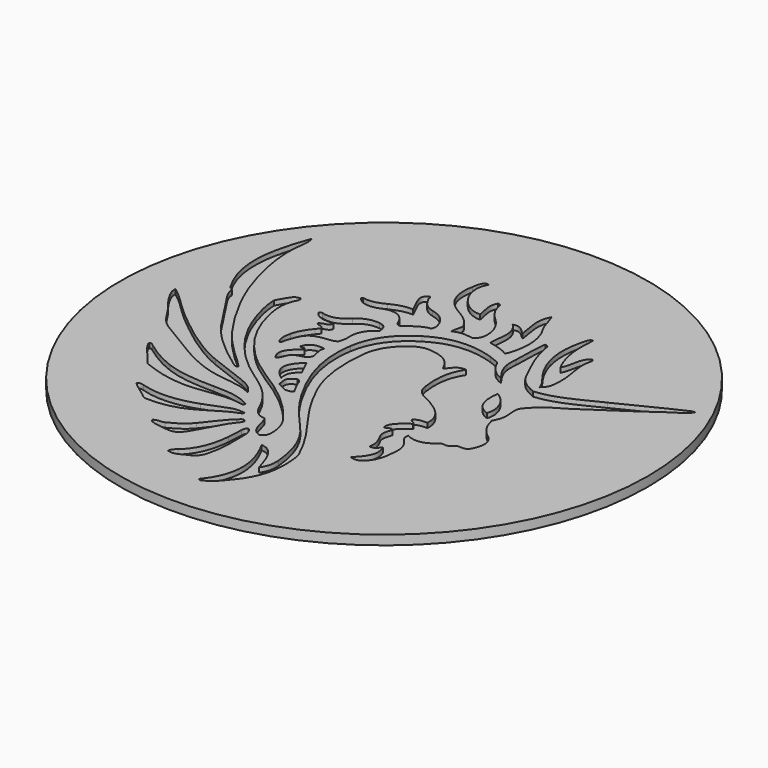
from build123d import *

# Parameters (mm, degrees)
SKETCH001_R  = 280
PAD_DEPTH    = 10
POCKET_DEPTH = 5


with BuildPart() as part:
    # Sketch001 (on DatumPlane) → Pad (new body)
    with BuildSketch(Plane.XY):
        Circle(SKETCH001_R)
    extrude(amount=-PAD_DEPTH)

    # Sketch002 (on DatumPlane) → Pocket (cut)
    with BuildSketch(Plane(origin=(-240, 190, 0), x_dir=(1, 0, 0), z_dir=(0, 0, 1))):
        with BuildLine():
            add(Edge.make_bspline(
                [(196.41095, -254.761603), (195.018448, -255.547707), (194.370907, -256.126403), (193.63272, -256.285974)],
                knots=[0, 0, 0, 0, 1, 1, 1, 1], degree=3))
            add(Edge.make_bspline(
                [(193.63272, -256.285974), (192.05665, -256.626651), (190.433616, -256.750185), (188.519276, -257.003815)],
                knots=[0, 0, 0, 0, 1, 1, 1, 1], degree=3))
            add(Edge.make_bspline(
                [(188.519276, -257.003815), (185.128985, -255.250527), (181.572667, -253.411329), (178.342078, -251.740617)],
                knots=[0, 0, 0, 0, 1, 1, 1, 1], degree=3))
            add(Edge.make_bspline(
                [(178.342078, -251.740617), (175.915717, -241.787045), (176.890257, -239.394206), (184.496631, -235.698321)],
                knots=[0, 0, 0, 0, 1, 1, 1, 1], degree=3))
            add(Edge.make_bspline(
                [(184.496631, -235.698321), (189.500192, -236.420528), (189.060878, -241.199802), (190.863035, -244.267514)],
                knots=[0, 0, 0, 0, 1, 1, 1, 1], degree=3))
            add(Edge.make_bspline(
                [(190.863035, -244.267514), (192.765151, -247.505432), (194.38964, -250.906386), (196.41095, -254.761603)],
                knots=[0, 0, 0, 0, 1, 1, 1, 1], degree=3))
        make_face()
        with BuildLine():
            add(Edge.make_bspline(
                [(356.803457, -193.12554), (358.928009, -203.63479), (363.88765, -211.077784), (371.673808, -217.00408)],
                knots=[0, 0, 0, 0, 1, 1, 1, 1], degree=3))
            add(Edge.make_bspline(
                [(371.673808, -217.00408), (378.612532, -222.285454), (380.246758, -230.131303), (376.878691, -238.313198)],
                knots=[0, 0, 0, 0, 1, 1, 1, 1], degree=3))
            add(Edge.make_bspline(
                [(376.878691, -238.313198), (375.84933, -240.813802), (375.030815, -243.48014), (373.094197, -245.409402)],
                knots=[0, 0, 0, 0, 1, 1, 1, 1], degree=3))
            add(Edge.make_bspline(
                [(373.094197, -245.409402), (369.981136, -247.35245), (366.566556, -246.041571), (363.032543, -246.662125)],
                knots=[0, 0, 0, 0, 1, 1, 1, 1], degree=3))
            add(Edge.make_bspline(
                [(363.032543, -246.662125), (361.121008, -248.140432), (358.984047, -249.793125), (357.901425, -250.630399)],
                knots=[0, 0, 0, 0, 1, 1, 1, 1], degree=3))
            add(Edge.make_bspline(
                [(357.901425, -250.630399), (354.300975, -252.4946), (351.877021, -250.762955), (349.486114, -251.262012)],
                knots=[0, 0, 0, 0, 1, 1, 1, 1], degree=3))
            add(Edge.make_bspline(
                [(349.486114, -251.262012), (340.8544, -259.207952), (331.444944, -263.351724), (319.618334, -257.466597)],
                knots=[0, 0, 0, 0, 1, 1, 1, 1], degree=3))
            add(Edge.make_bspline(
                [(319.618334, -257.466597), (317.960587, -263.067086), (322.359867, -266.306379), (324.907566, -269.595018)],
                knots=[0, 0, 0, 0, 1, 1, 1, 1], degree=3))
            add(Edge.make_bspline(
                [(324.907566, -269.595018), (328.755163, -274.561697), (329.756717, -279.819179), (329.3931, -285.626096)],
                knots=[0, 0, 0, 0, 1, 1, 1, 1], degree=3))
            add(Edge.make_bspline(
                [(329.3931, -285.626096), (328.775536, -295.48836), (327.81793, -305.243442), (321.057349, -313.338184)],
                knots=[0, 0, 0, 0, 1, 1, 1, 1], degree=3))
            add(Edge.make_bspline(
                [(321.057349, -313.338184), (317.090266, -318.088063), (312.538242, -319.345627), (306.548684, -317.207662)],
                knots=[0, 0, 0, 0, 1, 1, 1, 1], degree=3))
            add(Edge.make_bspline(
                [(306.548684, -317.207662), (318.613949, -304.753698), (320.907622, -297.70996), (316.351973, -286.745733)],
                knots=[0, 0, 0, 0, 1, 1, 1, 1], degree=3))
            add(Edge.make_bspline(
                [(316.351973, -286.745733), (313.875288, -289.694646), (312.063051, -293.625164), (306.726484, -292.532435)],
                knots=[0, 0, 0, 0, 1, 1, 1, 1], degree=3))
            add(Edge.make_bspline(
                [(306.726484, -292.532435), (307.911262, -285.471473), (305.603143, -279.164415), (302.055292, -272.982372)],
                knots=[0, 0, 0, 0, 1, 1, 1, 1], degree=3))
            add(Edge.make_bspline(
                [(302.055292, -272.982372), (299.144558, -267.910469), (301.268156, -262.483812), (302.990144, -257.746923)],
                knots=[0, 0, 0, 0, 1, 1, 1, 1], degree=3))
            add(Edge.make_bspline(
                [(302.990144, -257.746923), (299.428244, -254.126868), (297.172936, -259.347996), (294.295486, -258.071858)],
                knots=[0, 0, 0, 0, 1, 1, 1, 1], degree=3))
            add(Edge.make_bspline(
                [(294.295486, -258.071858), (293.207599, -251.868755), (296.593498, -247.412007), (309.246217, -238.359976)],
                knots=[0, 0, 0, 0, 1, 1, 1, 1], degree=3))
            add(Edge.make_bspline(
                [(309.246217, -238.359976), (309.064501, -235.23366), (304.956051, -236.222619), (304.095362, -233.010922)],
                knots=[0, 0, 0, 0, 1, 1, 1, 1], degree=3))
            add(Edge.make_bspline(
                [(304.095362, -233.010922), (307.580639, -229.401185), (312.396717, -229.440766), (317.510054, -229.371128)],
                knots=[0, 0, 0, 0, 1, 1, 1, 1], degree=3))
            add(Edge.make_bspline(
                [(317.510054, -229.371128), (318.226546, -217.595265), (311.757378, -210.199843), (303.299178, -204.216132)],
                knots=[0, 0, 0, 0, 1, 1, 1, 1], degree=3))
            add(Edge.make_bspline(
                [(303.299178, -204.216132), (298.185866, -200.598723), (292.746986, -197.214728), (287.011586, -194.760824)],
                knots=[0, 0, 0, 0, 1, 1, 1, 1], degree=3))
            add(Edge.make_bspline(
                [(287.011586, -194.760824), (279.813015, -191.680862), (276.393275, -186.242986), (275.408496, -179.116725)],
                knots=[0, 0, 0, 0, 1, 1, 1, 1], degree=3))
            add(Edge.make_bspline(
                [(275.408496, -179.116725), (273.270557, -163.6463), (274.149476, -148.58701), (283.144965, -135.004678)],
                knots=[0, 0, 0, 0, 1, 1, 1, 1], degree=3))
            add(Edge.make_bspline(
                [(283.144965, -135.004678), (276.638994, -134.60775), (272.903209, -137.055622), (267.943013, -144.943327)],
                knots=[0, 0, 0, 0, 1, 1, 1, 1], degree=3))
            add(Edge.make_bspline(
                [(267.943013, -144.943327), (267.05814, -145.146686), (266.16242, -144.925441), (265.851825, -144.132274)],
                knots=[0, 0, 0, 0, 1, 1, 1, 1], degree=3))
            add(Edge.make_bspline(
                [(265.851825, -144.132274), (260.68311, -130.932529), (249.293248, -126.952401), (236.916965, -126.203525)],
                knots=[0, 0, 0, 0, 1, 1, 1, 1], degree=3))
            add(Edge.make_bspline(
                [(236.916965, -126.203525), (226.106143, -125.549369), (218.051883, -132.43941), (211.153613, -140.065046)],
                knots=[0, 0, 0, 0, 1, 1, 1, 1], degree=3))
            add(Edge.make_bspline(
                [(211.153613, -140.065046), (204.36041, -147.574609), (200.347845, -156.640318), (199.276891, -166.650882)],
                knots=[0, 0, 0, 0, 1, 1, 1, 1], degree=3))
            add(Edge.make_bspline(
                [(199.276891, -166.650882), (196.622538, -191.461628), (198.317908, -215.794881), (208.590065, -238.989553)],
                knots=[0, 0, 0, 0, 1, 1, 1, 1], degree=3))
            add(Edge.make_bspline(
                [(208.590065, -238.989553), (216.124843, -256.003213), (225.597799, -271.963489), (236.676327, -286.799549)],
                knots=[0, 0, 0, 0, 1, 1, 1, 1], degree=3))
            add(Edge.make_bspline(
                [(236.676327, -286.799549), (249.126825, -303.472929), (260.75976, -320.517785), (269.398962, -339.509894)],
                knots=[0, 0, 0, 0, 1, 1, 1, 1], degree=3))
            add(Edge.make_bspline(
                [(269.398962, -339.509894), (271.148942, -343.356935), (271.436174, -347.481102), (271.866228, -351.458715)],
                knots=[0, 0, 0, 0, 1, 1, 1, 1], degree=3))
            add(Edge.make_bspline(
                [(271.866228, -351.458715), (274.132278, -372.417393), (269.919529, -391.938986), (256.174055, -408.31299)],
                knots=[0, 0, 0, 0, 1, 1, 1, 1], degree=3))
            add(Edge.make_bspline(
                [(256.174055, -408.31299), (251.041297, -414.427326), (246.536051, -421.538056), (239.009873, -425.422245)],
                knots=[0, 0, 0, 0, 1, 1, 1, 1], degree=3))
            add(Edge.make_bspline(
                [(239.009873, -425.422245), (236.933423, -426.493914), (235.070412, -428.496571), (232.471436, -426.543893)],
                knots=[0, 0, 0, 0, 1, 1, 1, 1], degree=3))
            add(Edge.make_bspline(
                [(232.471436, -426.543893), (253.802092, -400.677856), (250.430586, -374.009603), (235.164789, -346.245154)],
                knots=[0, 0, 0, 0, 1, 1, 1, 1], degree=3))
            add(Edge.make_bspline(
                [(235.164789, -346.245154), (244.073733, -346.907511), (248.056823, -352.97446), (251.210233, -358.968119)],
                knots=[0, 0, 0, 0, 1, 1, 1, 1], degree=3))
            add(Edge.make_bspline(
                [(251.210233, -358.968119), (254.338958, -364.914815), (255.967521, -371.650763), (258.545489, -378.855235)],
                knots=[0, 0, 0, 0, 1, 1, 1, 1], degree=3))
            add(Edge.make_bspline(
                [(258.545489, -378.855235), (263.392973, -372.621043), (263.95463, -365.937218), (263.47584, -359.405132)],
                knots=[0, 0, 0, 0, 1, 1, 1, 1], degree=3))
            add(Edge.make_bspline(
                [(263.47584, -359.405132), (261.80833, -336.655913), (254.142372, -316.069186), (238.323438, -299.403955)],
                knots=[0, 0, 0, 0, 1, 1, 1, 1], degree=3))
            add(Edge.make_bspline(
                [(238.323438, -299.403955), (225.666538, -286.069881), (214.364094, -271.819767), (205.081108, -256.041075)],
                knots=[0, 0, 0, 0, 1, 1, 1, 1], degree=3))
            add(Edge.make_bspline(
                [(205.081108, -256.041075), (187.971536, -226.959292), (176.319154, -196.377586), (181.690275, -161.696426)],
                knots=[0, 0, 0, 0, 1, 1, 1, 1], degree=3))
            add(Edge.make_bspline(
                [(181.690275, -161.696426), (185.190977, -139.092437), (197.782312, -122.756507), (216.930288, -110.864306)],
                knots=[0, 0, 0, 0, 1, 1, 1, 1], degree=3))
            add(Edge.make_bspline(
                [(216.930288, -110.864306), (238.558546, -97.431754), (261.250324, -96.80149), (284.756569, -104.616488)],
                knots=[0, 0, 0, 0, 1, 1, 1, 1], degree=3))
            add(Edge.make_bspline(
                [(284.756569, -104.616488), (288.101167, -105.728453), (291.329771, -107.18927), (295.003485, -108.643605)],
                knots=[0, 0, 0, 0, 1, 1, 1, 1], degree=3))
            add(Edge.make_bspline(
                [(295.003485, -108.643605), (299.121221, -117.230525), (304.478425, -125.126962), (314.650385, -128.251426)],
                knots=[0, 0, 0, 0, 1, 1, 1, 1], degree=3))
            add(Edge.make_bspline(
                [(314.650385, -128.251426), (309.790253, -121.936642), (305.46167, -115.537298), (304.192755, -107.432634)],
                knots=[0, 0, 0, 0, 1, 1, 1, 1], degree=3))
            add(Edge.make_bspline(
                [(304.192755, -107.432634), (303.545081, -103.295953), (303.93222, -99.198906), (304.186908, -95.194332)],
                knots=[0, 0, 0, 0, 1, 1, 1, 1], degree=3))
            add(Edge.make_bspline(
                [(304.186908, -95.194332), (304.955152, -83.115494), (304.15402, -70.9159), (306.085849, -58.862807)],
                knots=[0, 0, 0, 0, 1, 1, 1, 1], degree=3))
            add(Edge.make_bspline(
                [(306.085849, -58.862807), (310.246448, -59.04021), (310.137281, -62.092523), (310.493728, -64.242818)],
                knots=[0, 0, 0, 0, 1, 1, 1, 1], degree=3))
            add(Edge.make_bspline(
                [(310.493728, -64.242818), (313.445128, -82.047689), (321.66941, -97.781216), (329.499039, -113.700825)],
                knots=[0, 0, 0, 0, 1, 1, 1, 1], degree=3))
            add(Edge.make_bspline(
                [(329.499039, -113.700825), (333.940282, -122.731001), (342.049021, -126.990422), (350.527911, -130.768672)],
                knots=[0, 0, 0, 0, 1, 1, 1, 1], degree=3))
            add(Edge.make_bspline(
                [(350.527911, -130.768672), (373.033581, -129.044726), (391.718747, -117.117178), (411.331833, -107.997096)],
                knots=[0, 0, 0, 0, 1, 1, 1, 1], degree=3))
            add(Edge.make_bspline(
                [(411.331833, -107.997096), (432.806554, -98.01143), (453.516868, -86.407308), (475.17603, -76.760996)],
                knots=[0, 0, 0, 0, 1, 1, 1, 1], degree=3))
            add(Edge.make_bspline(
                [(475.17603, -76.760996), (475.857993, -76.457254), (476.650235, -76.40111), (479.098213, -75.83424)],
                knots=[0, 0, 0, 0, 1, 1, 1, 1], degree=3))
            add(Edge.make_bspline(
                [(479.098213, -75.83424), (476.690346, -80.278526), (473.757757, -82.568997), (470.795112, -84.269024)],
                knots=[0, 0, 0, 0, 1, 1, 1, 1], degree=3))
            add(Edge.make_bspline(
                [(470.795112, -84.269024), (458.424941, -91.367187), (447.650314, -100.808869), (435.630294, -108.290678)],
                knots=[0, 0, 0, 0, 1, 1, 1, 1], degree=3))
            add(Edge.make_bspline(
                [(435.630294, -108.290678), (416.361219, -120.284637), (398.639744, -134.64794), (378.652537, -145.440426)],
                knots=[0, 0, 0, 0, 1, 1, 1, 1], degree=3))
            add(Edge.make_bspline(
                [(378.652537, -145.440426), (372.122965, -148.966185), (368.100928, -154.710448), (363.28178, -159.679375)],
                knots=[0, 0, 0, 0, 1, 1, 1, 1], degree=3))
            add(Edge.make_bspline(
                [(363.28178, -159.679375), (359.276438, -163.80923), (360.412903, -170.422808), (360.87476, -175.412374)],
                knots=[0, 0, 0, 0, 1, 1, 1, 1], degree=3))
            add(Edge.make_bspline(
                [(360.87476, -175.412374), (361.50206, -182.189967), (360.071194, -187.731876), (356.803457, -193.12554)],
                knots=[0, 0, 0, 0, 1, 1, 1, 1], degree=3))
        make_face()
        with BuildLine():
            add(Edge.make_bspline(
                [(330.51414, -152.445191), (328.341249, -170.786108), (332.55802, -180.293407), (344.870379, -184.81331)],
                knots=[0, 0, 0, 0, 1, 1, 1, 1], degree=3))
            add(Edge.make_bspline(
                [(344.870379, -184.81331), (348.941522, -174.725648), (343.422552, -159.729382), (330.51414, -152.445191)],
                knots=[0, 0, 0, 0, 1, 1, 1, 1], degree=3))
        make_face(mode=Mode.SUBTRACT)
        with BuildLine():
            add(Edge.make_bspline(
                [(222.434362, -333.493295), (209.855461, -329.287373), (212.435969, -316.379225), (207.173221, -307.251444)],
                knots=[0, 0, 0, 0, 1, 1, 1, 1], degree=3))
            add(Edge.make_bspline(
                [(207.173221, -307.251444), (197.469046, -306.986993), (193.473917, -299.934551), (189.835234, -291.774298)],
                knots=[0, 0, 0, 0, 1, 1, 1, 1], degree=3))
            add(Edge.make_bspline(
                [(189.835234, -291.774298), (182.577317, -275.497502), (169.596991, -264.315231), (155.070334, -254.671142)],
                knots=[0, 0, 0, 0, 1, 1, 1, 1], degree=3))
            add(Edge.make_bspline(
                [(155.070334, -254.671142), (123.219845, -233.525907), (99.62351, -205.717696), (87.572321, -169.076105)],
                knots=[0, 0, 0, 0, 1, 1, 1, 1], degree=3))
            add(Edge.make_bspline(
                [(87.572321, -169.076105), (84.183352, -158.772013), (81.355777, -148.11973), (81.038832, -137.290704)],
                knots=[0, 0, 0, 0, 1, 1, 1, 1], degree=3))
            add(Edge.make_bspline(
                [(81.038832, -137.290704), (89.774183, -121.627583), (89.774183, -121.627583), (95.920957, -120.681856)],
                knots=[0, 0, 0, 0, 1, 1, 1, 1], degree=3))
            add(Edge.make_bspline(
                [(95.920957, -120.681856), (97.742666, -122.307906), (97.092214, -124.263176), (96.207474, -125.900894)],
                knots=[0, 0, 0, 0, 1, 1, 1, 1], degree=3))
            add(Edge.make_bspline(
                [(96.207474, -125.900894), (89.992015, -137.406406), (91.876615, -149.581235), (94.531206, -161.189485)],
                knots=[0, 0, 0, 0, 1, 1, 1, 1], degree=3))
            add(Edge.make_bspline(
                [(94.531206, -161.189485), (101.366029, -191.077294), (118.406757, -214.868019), (142.017618, -233.799856)],
                knots=[0, 0, 0, 0, 1, 1, 1, 1], degree=3))
            add(Edge.make_bspline(
                [(142.017618, -233.799856), (152.611614, -242.294384), (164.621686, -249.006095), (175.843433, -256.738358)],
                knots=[0, 0, 0, 0, 1, 1, 1, 1], degree=3))
            add(Edge.make_bspline(
                [(175.843433, -256.738358), (193.266457, -268.743562), (208.636923, -282.994312), (220.940207, -300.256178)],
                knots=[0, 0, 0, 0, 1, 1, 1, 1], degree=3))
            add(Edge.make_bspline(
                [(220.940207, -300.256178), (226.119373, -307.522668), (228.247099, -316.125357), (228.099303, -325.090552)],
                knots=[0, 0, 0, 0, 1, 1, 1, 1], degree=3))
            add(Edge.make_bspline(
                [(228.099303, -325.090552), (228.03739, -328.848059), (226.214781, -331.820467), (222.434362, -333.493295)],
                knots=[0, 0, 0, 0, 1, 1, 1, 1], degree=3))
        make_face()
        with BuildLine():
            add(Edge.make_bspline(
                [(36.53573, -31.408291), (39.000747, -38.871578), (36.79616, -46.149128), (36.195952, -53.397732)],
                knots=[0, 0, 0, 0, 1, 1, 1, 1], degree=3))
            add(Edge.make_bspline(
                [(36.195952, -53.397732), (35.115421, -66.446532), (36.813543, -79.124413), (39.2498, -91.68093)],
                knots=[0, 0, 0, 0, 1, 1, 1, 1], degree=3))
            add(Edge.make_bspline(
                [(39.2498, -91.68093), (43.844131, -115.360238), (51.72919, -138.09345), (62.771761, -159.521128)],
                knots=[0, 0, 0, 0, 1, 1, 1, 1], degree=3))
            add(Edge.make_bspline(
                [(62.771761, -159.521128), (76.31131, -185.794121), (91.959695, -210.575763), (114.133471, -230.864833)],
                knots=[0, 0, 0, 0, 1, 1, 1, 1], degree=3))
            add(Edge.make_bspline(
                [(114.133471, -230.864833), (120.192112, -236.408516), (126.636939, -241.924258), (132.127043, -248.113047)],
                knots=[0, 0, 0, 0, 1, 1, 1, 1], degree=3))
            add(Edge.make_bspline(
                [(132.127043, -248.113047), (130.554386, -250.053607), (129.214086, -249.497321), (128.124373, -248.71717)],
                knots=[0, 0, 0, 0, 1, 1, 1, 1], degree=3))
            add(Edge.make_bspline(
                [(128.124373, -248.71717), (108.116158, -234.392602), (88.641343, -219.397157), (74.395568, -198.94804)],
                knots=[0, 0, 0, 0, 1, 1, 1, 1], degree=3))
            add(Edge.make_bspline(
                [(74.395568, -198.94804), (64.908404, -185.329671), (56.084867, -171.244816), (47.129224, -157.263121)],
                knots=[0, 0, 0, 0, 1, 1, 1, 1], degree=3))
            add(Edge.make_bspline(
                [(47.129224, -157.263121), (44.651692, -153.395151), (42.450782, -149.272202), (42.343282, -145.402618)],
                knots=[0, 0, 0, 0, 1, 1, 1, 1], degree=3))
            add(Edge.make_bspline(
                [(42.343282, -145.402618), (41.317228, -142.295801), (38.729259, -142.856797), (38.081268, -141.437016)],
                knots=[0, 0, 0, 0, 1, 1, 1, 1], degree=3))
            add(Edge.make_bspline(
                [(38.081268, -141.437016), (15.357422, -104.86943), (22.794992, -68.119625), (36.53573, -31.408291)],
                knots=[0, 0, 0, 0, 1, 1, 1, 1], degree=3))
        make_face()
        with BuildLine():
            add(Edge.make_bspline(
                [(4.542631, -172.338497), (12.466267, -178.109324), (19.378798, -184.592542), (25.899851, -191.254433)],
                knots=[0, 0, 0, 0, 1, 1, 1, 1], degree=3))
            add(Edge.make_bspline(
                [(25.899851, -191.254433), (33.785625, -199.310599), (42.528993, -206.279988), (51.172269, -213.277609)],
                knots=[0, 0, 0, 0, 1, 1, 1, 1], degree=3))
            add(Edge.make_bspline(
                [(51.172269, -213.277609), (69.029236, -227.734627), (87.725515, -241.214936), (109.105568, -250.151133)],
                knots=[0, 0, 0, 0, 1, 1, 1, 1], degree=3))
            add(Edge.make_bspline(
                [(109.105568, -250.151133), (122.467052, -255.735825), (136.302697, -260.177624), (149.739694, -265.593486)],
                knots=[0, 0, 0, 0, 1, 1, 1, 1], degree=3))
            add(Edge.make_bspline(
                [(149.739694, -265.593486), (156.938213, -268.49488), (163.455191, -272.718847), (167.328241, -280.15266)],
                knots=[0, 0, 0, 0, 1, 1, 1, 1], degree=3))
            add(Edge.make_bspline(
                [(167.328241, -280.15266), (156.261461, -273.665421), (143.733441, -273.476746), (131.76504, -271.842812)],
                knots=[0, 0, 0, 0, 1, 1, 1, 1], degree=3))
            add(Edge.make_bspline(
                [(131.76504, -271.842812), (113.936542, -269.408831), (98.391689, -262.09707), (83.030721, -253.400004)],
                knots=[0, 0, 0, 0, 1, 1, 1, 1], degree=3))
            add(Edge.make_bspline(
                [(83.030721, -253.400004), (70.908413, -246.53658), (59.536886, -238.474276), (47.287206, -231.870647)],
                knots=[0, 0, 0, 0, 1, 1, 1, 1], degree=3))
            add(Edge.make_bspline(
                [(47.287206, -231.870647), (39.643579, -227.750132), (33.398963, -222.378455), (29.064638, -214.697125)],
                knots=[0, 0, 0, 0, 1, 1, 1, 1], degree=3))
            add(Edge.make_bspline(
                [(29.064638, -214.697125), (22.779911, -203.559304), (13.135504, -194.705261), (7.429579, -183.103176)],
                knots=[0, 0, 0, 0, 1, 1, 1, 1], degree=3))
            add(Edge.make_bspline(
                [(7.429579, -183.103176), (5.757757, -179.703783), (4.322313, -176.449593), (4.542631, -172.338497)],
                knots=[0, 0, 0, 0, 1, 1, 1, 1], degree=3))
        make_face()
        with BuildLine():
            add(Edge.make_bspline(
                [(183.694546, -125.617949), (174.037863, -131.526015), (169.963095, -140.121534), (170.627331, -151.227208)],
                knots=[0, 0, 0, 0, 1, 1, 1, 1], degree=3))
            add(Edge.make_bspline(
                [(170.627331, -151.227208), (170.837013, -154.733069), (170.088851, -158.300129), (168.713441, -161.437294)],
                knots=[0, 0, 0, 0, 1, 1, 1, 1], degree=3))
            add(Edge.make_bspline(
                [(168.713441, -161.437294), (165.477904, -163.822989), (161.855309, -163.967345), (158.34532, -164.292518)],
                knots=[0, 0, 0, 0, 1, 1, 1, 1], degree=3))
            add(Edge.make_bspline(
                [(158.34532, -164.292518), (139.194222, -166.066708), (138.184096, -173.812359), (133.302878, -187.69793)],
                knots=[0, 0, 0, 0, 1, 1, 1, 1], degree=3))
            add(Edge.make_bspline(
                [(133.302878, -187.69793), (132.781543, -189.180973), (133.483191, -191.012445), (131.316651, -193.122312)],
                knots=[0, 0, 0, 0, 1, 1, 1, 1], degree=3))
            add(Edge.make_bspline(
                [(131.316651, -193.122312), (126.811987, -187.519575), (128.078071, -181.303057), (129.252319, -175.600466)],
                knots=[0, 0, 0, 0, 1, 1, 1, 1], degree=3))
            add(Edge.make_bspline(
                [(129.252319, -175.600466), (130.755602, -168.299924), (134.967504, -162.127591), (139.567285, -156.303292)],
                knots=[0, 0, 0, 0, 1, 1, 1, 1], degree=3))
            add(Edge.make_bspline(
                [(139.567285, -156.303292), (140.737511, -154.82152), (142.275639, -153.548662), (142.673387, -151.45639)],
                knots=[0, 0, 0, 0, 1, 1, 1, 1], degree=3))
            add(Edge.make_bspline(
                [(142.673387, -151.45639), (141.511999, -147.915339), (137.300917, -149.639073), (134.996026, -146.963236)],
                knots=[0, 0, 0, 0, 1, 1, 1, 1], degree=3))
            add(Edge.make_bspline(
                [(134.996026, -146.963236), (137.540047, -143.132731), (144.262792, -145.344303), (145.846668, -139.320085)],
                knots=[0, 0, 0, 0, 1, 1, 1, 1], degree=3))
            add(Edge.make_bspline(
                [(145.846668, -139.320085), (137.748592, -138.661749), (128.764427, -140.006599), (123.680696, -131.40137)],
                knots=[0, 0, 0, 0, 1, 1, 1, 1], degree=3))
            add(Edge.make_bspline(
                [(123.680696, -131.40137), (124.266642, -129.821623), (125.358393, -129.510181), (126.902871, -129.972594)],
                knots=[0, 0, 0, 0, 1, 1, 1, 1], degree=3))
            add(Edge.make_bspline(
                [(126.902871, -129.972594), (137.05586, -133.012418), (145.065776, -128.895528), (152.164362, -122.169555)],
                knots=[0, 0, 0, 0, 1, 1, 1, 1], degree=3))
            add(Edge.make_bspline(
                [(152.164362, -122.169555), (158.503488, -116.163196), (165.882479, -113.357051), (174.577534, -114.450019)],
                knots=[0, 0, 0, 0, 1, 1, 1, 1], degree=3))
            add(Edge.make_bspline(
                [(174.577534, -114.450019), (180.782621, -115.23001), (183.120162, -117.98726), (183.694546, -125.617949)],
                knots=[0, 0, 0, 0, 1, 1, 1, 1], degree=3))
        make_face()
        with BuildLine():
            add(Edge.make_bspline(
                [(202.572726, -4.437724), (191.18744, -23.122096), (210.545601, -50.928984), (230.09016, -50.393124)],
                knots=[0, 0, 0, 0, 1, 1, 1, 1], degree=3))
            add(Edge.make_bspline(
                [(230.09016, -50.393124), (229.240503, -42.203423), (224.596643, -33.889209), (229.665795, -25.866804)],
                knots=[0, 0, 0, 0, 1, 1, 1, 1], degree=3))
            add(Edge.make_bspline(
                [(229.665795, -25.866804), (232.578963, -25.680882), (232.901093, -27.452558), (233.187372, -29.014817)],
                knots=[0, 0, 0, 0, 1, 1, 1, 1], degree=3))
            add(Edge.make_bspline(
                [(233.187372, -29.014817), (234.619774, -36.831773), (238.626624, -42.954416), (244.482117, -48.31715)],
                knots=[0, 0, 0, 0, 1, 1, 1, 1], degree=3))
            add(Edge.make_bspline(
                [(244.482117, -48.31715), (251.637509, -54.87035), (256.804345, -62.755542), (257.59791, -72.869769)],
                knots=[0, 0, 0, 0, 1, 1, 1, 1], degree=3))
            add(Edge.make_bspline(
                [(257.59791, -72.869769), (258.021323, -78.266422), (257.351768, -83.204209), (252.170089, -87.35986)],
                knots=[0, 0, 0, 0, 1, 1, 1, 1], degree=3))
            add(Edge.make_bspline(
                [(252.170089, -87.35986), (245.489677, -86.82691), (238.171011, -84.541757), (230.671026, -89.210938)],
                knots=[0, 0, 0, 0, 1, 1, 1, 1], degree=3))
            add(Edge.make_bspline(
                [(230.671026, -89.210938), (230.306245, -82.831808), (233.869865, -77.873701), (231.943249, -74.6388)],
                knots=[0, 0, 0, 0, 1, 1, 1, 1], degree=3))
            add(Edge.make_bspline(
                [(231.943249, -74.6388), (226.4147, -64.599344), (217.996241, -60.642817), (210.44445, -55.947178)],
                knots=[0, 0, 0, 0, 1, 1, 1, 1], degree=3))
            add(Edge.make_bspline(
                [(210.44445, -55.947178), (195.013739, -46.352513), (191.137302, -32.602858), (194.48063, -15.791736)],
                knots=[0, 0, 0, 0, 1, 1, 1, 1], degree=3))
            add(Edge.make_bspline(
                [(194.48063, -15.791736), (195.167806, -12.336436), (195.361666, -8.710136), (197.582684, -5.710211)],
                knots=[0, 0, 0, 0, 1, 1, 1, 1], degree=3))
            add(Edge.make_bspline(
                [(197.582684, -5.710211), (198.662158, -4.252172), (199.97293, -3.519752), (202.572726, -4.437724)],
                knots=[0, 0, 0, 0, 1, 1, 1, 1], degree=3))
        make_face()
        with BuildLine():
            add(Edge.make_bspline(
                [(181.143778, -78.040204), (171.268258, -58.962369), (170.831351, -55.745327), (177.326158, -51.50657)],
                knots=[0, 0, 0, 0, 1, 1, 1, 1], degree=3))
            add(Edge.make_bspline(
                [(177.326158, -51.50657), (179.523046, -52.004198), (178.872145, -54.095782), (179.519606, -55.460133)],
                knots=[0, 0, 0, 0, 1, 1, 1, 1], degree=3))
            add(Edge.make_bspline(
                [(179.519606, -55.460133), (182.778347, -62.327181), (186.858407, -67.917483), (195.101289, -69.768429)],
                knots=[0, 0, 0, 0, 1, 1, 1, 1], degree=3))
            add(Edge.make_bspline(
                [(195.101289, -69.768429), (203.982055, -71.76262), (211.167133, -76.553139), (214.390155, -85.745585)],
                knots=[0, 0, 0, 0, 1, 1, 1, 1], degree=3))
            add(Edge.make_bspline(
                [(214.390155, -85.745585), (215.386867, -88.588321), (216.59432, -91.416214), (214.29173, -95.511646)],
                knots=[0, 0, 0, 0, 1, 1, 1, 1], degree=3))
            add(Edge.make_bspline(
                [(214.29173, -95.511646), (205.151408, -96.731349), (197.621207, -103.531485), (190.354506, -108.258451)],
                knots=[0, 0, 0, 0, 1, 1, 1, 1], degree=3))
            add(Edge.make_bspline(
                [(190.354506, -108.258451), (187.341536, -106.887169), (186.687407, -105.729273), (186.184143, -104.420273)],
                knots=[0, 0, 0, 0, 1, 1, 1, 1], degree=3))
            add(Edge.make_bspline(
                [(186.184143, -104.420273), (181.961869, -93.437631), (173.299252, -89.152069), (162.08793, -92.542281)],
                knots=[0, 0, 0, 0, 1, 1, 1, 1], degree=3))
            add(Edge.make_bspline(
                [(162.08793, -92.542281), (159.210984, -93.412257), (156.444791, -94.746604), (153.520696, -95.343319)],
                knots=[0, 0, 0, 0, 1, 1, 1, 1], degree=3))
            add(Edge.make_bspline(
                [(153.520696, -95.343319), (146.143133, -96.848824), (139.633484, -95.439389), (134.777321, -89.230094)],
                knots=[0, 0, 0, 0, 1, 1, 1, 1], degree=3))
            add(Edge.make_bspline(
                [(134.777321, -89.230094), (135.311409, -88.401472), (135.700585, -87.555017), (135.85317, -87.59571)],
                knots=[0, 0, 0, 0, 1, 1, 1, 1], degree=3))
            add(Edge.make_bspline(
                [(135.85317, -87.59571), (143.997389, -89.768045), (151.136324, -87.366634), (158.388579, -83.641062)],
                knots=[0, 0, 0, 0, 1, 1, 1, 1], degree=3))
            add(Edge.make_bspline(
                [(158.388579, -83.641062), (165.328335, -80.076014), (172.785379, -77.452352), (181.143778, -78.040204)],
                knots=[0, 0, 0, 0, 1, 1, 1, 1], degree=3))
        make_face()
        with BuildLine():
            add(Edge.make_bspline(
                [(178.828091, -297.320573), (178.423993, -298.671297), (177.659427, -299.73778), (176.50669, -299.465391)],
                knots=[0, 0, 0, 0, 1, 1, 1, 1], degree=3))
            add(Edge.make_bspline(
                [(176.50669, -299.465391), (160.378272, -295.654492), (144.549601, -299.732356), (128.658885, -301.330995)],
                knots=[0, 0, 0, 0, 1, 1, 1, 1], degree=3))
            add(Edge.make_bspline(
                [(128.658885, -301.330995), (109.709903, -303.237318), (91.732338, -299.708067), (74.244597, -292.739895)],
                knots=[0, 0, 0, 0, 1, 1, 1, 1], degree=3))
            add(Edge.make_bspline(
                [(74.244597, -292.739895), (72.486017, -292.039172), (70.421685, -291.765858), (69.222064, -290.137136)],
                knots=[0, 0, 0, 0, 1, 1, 1, 1], degree=3))
            add(Edge.make_bspline(
                [(69.222064, -290.137136), (62.478206, -280.981388), (53.663665, -273.439361), (48.282093, -263.235122)],
                knots=[0, 0, 0, 0, 1, 1, 1, 1], degree=3))
            add(Edge.make_bspline(
                [(48.282093, -263.235122), (48.088312, -262.867696), (48.415231, -262.225631), (48.507015, -261.66572)],
                knots=[0, 0, 0, 0, 1, 1, 1, 1], degree=3))
            add(Edge.make_bspline(
                [(48.507015, -261.66572), (50.393785, -260.088274), (51.318478, -261.867941), (52.557045, -262.78459)],
                knots=[0, 0, 0, 0, 1, 1, 1, 1], degree=3))
            add(Edge.make_bspline(
                [(52.557045, -262.78459), (63.066295, -270.562414), (73.953, -277.195042), (86.533699, -281.767359)],
                knots=[0, 0, 0, 0, 1, 1, 1, 1], degree=3))
            add(Edge.make_bspline(
                [(86.533699, -281.767359), (103.71111, -288.010362), (121.063015, -288.709709), (138.868706, -288.843164)],
                knots=[0, 0, 0, 0, 1, 1, 1, 1], degree=3))
            add(Edge.make_bspline(
                [(138.868706, -288.843164), (152.631881, -288.946325), (166.636832, -289.307429), (178.828091, -297.320573)],
                knots=[0, 0, 0, 0, 1, 1, 1, 1], degree=3))
        make_face()
        with BuildLine():
            add(Edge.make_bspline(
                [(290.25178, -92.402369), (283.35515, -88.26963), (276.074214, -86.359312), (268.161955, -84.757551)],
                knots=[0, 0, 0, 0, 1, 1, 1, 1], degree=3))
            add(Edge.make_bspline(
                [(268.161955, -84.757551), (268.67014, -71.774659), (274.126537, -58.624047), (262.678889, -47.874052)],
                knots=[0, 0, 0, 0, 1, 1, 1, 1], degree=3))
            add(Edge.make_bspline(
                [(262.678889, -47.874052), (270.241448, -45.072776), (273.540035, -50.651833), (278.979127, -55.237856)],
                knots=[0, 0, 0, 0, 1, 1, 1, 1], degree=3))
            add(Edge.make_bspline(
                [(278.979127, -55.237856), (277.657825, -42.157862), (272.153433, -30.344745), (279.447572, -17.293802)],
                knots=[0, 0, 0, 0, 1, 1, 1, 1], degree=3))
            add(Edge.make_bspline(
                [(279.447572, -17.293802), (283.220266, -25.560073), (283.900377, -33.261459), (287.928711, -39.57021)],
                knots=[0, 0, 0, 0, 1, 1, 1, 1], degree=3))
            add(Edge.make_bspline(
                [(287.928711, -39.57021), (291.970222, -45.899599), (293.960973, -52.922408), (295.042167, -60.264252)],
                knots=[0, 0, 0, 0, 1, 1, 1, 1], degree=3))
            add(Edge.make_bspline(
                [(295.042167, -60.264252), (296.389478, -69.413252), (294.311176, -85.048725), (290.25178, -92.402369)],
                knots=[0, 0, 0, 0, 1, 1, 1, 1], degree=3))
        make_face()
        with BuildLine():
            add(Edge.make_bspline(
                [(332.788816, -28.121901), (330.861379, -47.887943), (332.156647, -66.202216), (341.632355, -83.12404)],
                knots=[0, 0, 0, 0, 1, 1, 1, 1], degree=3))
            add(Edge.make_bspline(
                [(341.632355, -83.12404), (346.677006, -74.056875), (343.990189, -62.417166), (352.729615, -55.428012)],
                knots=[0, 0, 0, 0, 1, 1, 1, 1], degree=3))
            add(Edge.make_bspline(
                [(352.729615, -55.428012), (355.090254, -56.295078), (354.997544, -57.688506), (354.64795, -59.026663)],
                knots=[0, 0, 0, 0, 1, 1, 1, 1], degree=3))
            add(Edge.make_bspline(
                [(354.64795, -59.026663), (352.070696, -68.892208), (354.239248, -78.576831), (355.870907, -88.238991)],
                knots=[0, 0, 0, 0, 1, 1, 1, 1], degree=3))
            add(Edge.make_bspline(
                [(355.870907, -88.238991), (357.111856, -95.587503), (357.426895, -102.89241), (356.456245, -110.272274)],
                knots=[0, 0, 0, 0, 1, 1, 1, 1], degree=3))
            add(Edge.make_bspline(
                [(356.456245, -110.272274), (355.759173, -115.57209), (354.959311, -117.178852), (350.243272, -121.720848)],
                knots=[0, 0, 0, 0, 1, 1, 1, 1], degree=3))
            add(Edge.make_bspline(
                [(350.243272, -121.720848), (348.433099, -114.732091), (343.491952, -110.077171), (339.608954, -104.632046)],
                knots=[0, 0, 0, 0, 1, 1, 1, 1], degree=3))
            add(Edge.make_bspline(
                [(339.608954, -104.632046), (323.918024, -82.628661), (320.669708, -58.301281), (328.705184, -32.495702)],
                knots=[0, 0, 0, 0, 1, 1, 1, 1], degree=3))
            add(Edge.make_bspline(
                [(328.705184, -32.495702), (329.025197, -31.468007), (329.592252, -30.493626), (330.184125, -29.585603)],
                knots=[0, 0, 0, 0, 1, 1, 1, 1], degree=3))
            add(Edge.make_bspline(
                [(330.184125, -29.585603), (330.428626, -29.210476), (331.042724, -29.076253), (332.788816, -28.121901)],
                knots=[0, 0, 0, 0, 1, 1, 1, 1], degree=3))
        make_face()
        with BuildLine():
            add(Edge.make_bspline(
                [(84.395813, -323.971444), (87.40947, -321.888273), (89.625038, -322.82601), (91.575361, -323.402457)],
                knots=[0, 0, 0, 0, 1, 1, 1, 1], degree=3))
            add(Edge.make_bspline(
                [(91.575361, -323.402457), (111.188659, -329.199637), (130.255327, -327.067942), (149.246775, -320.309372)],
                knots=[0, 0, 0, 0, 1, 1, 1, 1], degree=3))
            add(Edge.make_bspline(
                [(149.246775, -320.309372), (157.458966, -317.386864), (165.464172, -313.981862), (173.629532, -310.969792)],
                knots=[0, 0, 0, 0, 1, 1, 1, 1], degree=3))
            add(Edge.make_bspline(
                [(173.629532, -310.969792), (178.349328, -309.228808), (183.077459, -309.291461), (187.94513, -310.058964)],
                knots=[0, 0, 0, 0, 1, 1, 1, 1], degree=3))
            add(Edge.make_bspline(
                [(187.94513, -310.058964), (187.776167, -311.135183), (187.821649, -311.998757), (187.603368, -312.07157)],
                knots=[0, 0, 0, 0, 1, 1, 1, 1], degree=3))
            add(Edge.make_bspline(
                [(187.603368, -312.07157), (170.418972, -317.803742), (157.007825, -330.771368), (139.84306, -336.704702)],
                knots=[0, 0, 0, 0, 1, 1, 1, 1], degree=3))
            add(Edge.make_bspline(
                [(139.84306, -336.704702), (129.797492, -340.177094), (119.71401, -341.388621), (109.284373, -341.045562)],
                knots=[0, 0, 0, 0, 1, 1, 1, 1], degree=3))
            add(Edge.make_bspline(
                [(109.284373, -341.045562), (107.69182, -340.993201), (105.663603, -340.861518), (104.610985, -339.910076)],
                knots=[0, 0, 0, 0, 1, 1, 1, 1], degree=3))
            add(Edge.make_bspline(
                [(104.610985, -339.910076), (98.41402, -334.308979), (90.772086, -330.501016), (84.395813, -323.971444)],
                knots=[0, 0, 0, 0, 1, 1, 1, 1], degree=3))
        make_face()
        with BuildLine():
            add(Edge.make_bspline(
                [(181.071494, -402.78132), (181.205849, -398.919541), (183.751749, -397.25174), (185.615897, -395.597274)],
                knots=[0, 0, 0, 0, 1, 1, 1, 1], degree=3))
            add(Edge.make_bspline(
                [(185.615897, -395.597274), (198.754868, -383.936161), (202.864905, -368.440256), (204.574801, -351.915889)],
                knots=[0, 0, 0, 0, 1, 1, 1, 1], degree=3))
            add(Edge.make_bspline(
                [(204.574801, -351.915889), (205.133257, -346.519474), (205.090025, -341.063183), (205.471078, -335.644781)],
                knots=[0, 0, 0, 0, 1, 1, 1, 1], degree=3))
            add(Edge.make_bspline(
                [(205.471078, -335.644781), (205.6189, -333.543169), (205.952487, -331.372184), (207.886961, -329.72293)],
                knots=[0, 0, 0, 0, 1, 1, 1, 1], degree=3))
            add(Edge.make_bspline(
                [(207.886961, -329.72293), (213.736899, -333.731632), (212.804507, -340.33243), (212.954129, -345.469792)],
                knots=[0, 0, 0, 0, 1, 1, 1, 1], degree=3))
            add(Edge.make_bspline(
                [(212.954129, -345.469792), (213.349231, -359.036144), (213.269592, -372.714599), (209.683244, -386.063993)],
                knots=[0, 0, 0, 0, 1, 1, 1, 1], degree=3))
            add(Edge.make_bspline(
                [(209.683244, -386.063993), (208.233354, -391.461122), (205.410382, -395.675326), (200.314772, -397.675074)],
                knots=[0, 0, 0, 0, 1, 1, 1, 1], degree=3))
            add(Edge.make_bspline(
                [(200.314772, -397.675074), (194.260893, -400.050979), (188.92229, -405.459882), (181.071494, -402.78132)],
                knots=[0, 0, 0, 0, 1, 1, 1, 1], degree=3))
        make_face()
        with BuildLine():
            add(Edge.make_bspline(
                [(136.31627, -367.277041), (139.806759, -364.765008), (143.992494, -366.109224), (147.418716, -364.480634)],
                knots=[0, 0, 0, 0, 1, 1, 1, 1], degree=3))
            add(Edge.make_bspline(
                [(147.418716, -364.480634), (155.39892, -360.687461), (162.661653, -355.963141), (168.431342, -349.181235)],
                knots=[0, 0, 0, 0, 1, 1, 1, 1], degree=3))
            add(Edge.make_bspline(
                [(168.431342, -349.181235), (175.842692, -340.469696), (181.942766, -330.631086), (190.673567, -323.065431)],
                knots=[0, 0, 0, 0, 1, 1, 1, 1], degree=3))
            add(Edge.make_bspline(
                [(190.673567, -323.065431), (192.465325, -321.512856), (194.298676, -318.240119), (197.37152, -321.653958)],
                knots=[0, 0, 0, 0, 1, 1, 1, 1], degree=3))
            add(Edge.make_bspline(
                [(197.37152, -321.653958), (197.564507, -323.807852), (196.127449, -325.286238), (194.989635, -326.65543)],
                knots=[0, 0, 0, 0, 1, 1, 1, 1], degree=3))
            add(Edge.make_bspline(
                [(194.989635, -326.65543), (186.171417, -337.266571), (181.314937, -350.19824), (174.19283, -361.78998)],
                knots=[0, 0, 0, 0, 1, 1, 1, 1], degree=3))
            add(Edge.make_bspline(
                [(174.19283, -361.78998), (166.759731, -373.887841), (164.290798, -374.769989), (150.003113, -372.555955)],
                knots=[0, 0, 0, 0, 1, 1, 1, 1], degree=3))
            add(Edge.make_bspline(
                [(150.003113, -372.555955), (146.243622, -371.973369), (142.431056, -371.852799), (138.866668, -370.291386)],
                knots=[0, 0, 0, 0, 1, 1, 1, 1], degree=3))
            add(Edge.make_bspline(
                [(138.866668, -370.291386), (137.821458, -369.833525), (136.900391, -369.409054), (136.31627, -367.277041)],
                knots=[0, 0, 0, 0, 1, 1, 1, 1], degree=3))
        make_face()
        with BuildLine():
            add(Edge.make_bspline(
                [(167.820049, -178.83042), (164.893625, -184.99164), (169.924439, -190.781384), (168.732809, -196.33782)],
                knots=[0, 0, 0, 0, 1, 1, 1, 1], degree=3))
            add(Edge.make_bspline(
                [(168.732809, -196.33782), (165.452822, -202.709304), (158.623132, -200.76832), (154.262931, -204.245078)],
                knots=[0, 0, 0, 0, 1, 1, 1, 1], degree=3))
            add(Edge.make_bspline(
                [(154.262931, -204.245078), (149.987767, -207.654049), (150.192766, -213.421145), (146.354774, -216.866946)],
                knots=[0, 0, 0, 0, 1, 1, 1, 1], degree=3))
            add(Edge.make_bspline(
                [(146.354774, -216.866946), (138.62767, -207.423438), (143.8647, -199.60246), (155.787037, -190.535613)],
                knots=[0, 0, 0, 0, 1, 1, 1, 1], degree=3))
            add(Edge.make_bspline(
                [(155.787037, -190.535613), (154.952991, -186.952096), (151.220673, -190.05042), (149.765676, -187.946506)],
                knots=[0, 0, 0, 0, 1, 1, 1, 1], degree=3))
            add(Edge.make_bspline(
                [(149.765676, -187.946506), (151.946478, -180.322194), (157.756834, -177.254853), (167.820049, -178.83042)],
                knots=[0, 0, 0, 0, 1, 1, 1, 1], degree=3))
        make_face()
        with BuildLine():
            add(Edge.make_bspline(
                [(172.59554, -242.24787), (158.891764, -231.7174), (156.620739, -222.037513), (172.26661, -207.907864)],
                knots=[0, 0, 0, 0, 1, 1, 1, 1], degree=3))
            add(Edge.make_bspline(
                [(172.26661, -207.907864), (174.812404, -213.311449), (177.284724, -218.559062), (179.926615, -224.166589)],
                knots=[0, 0, 0, 0, 1, 1, 1, 1], degree=3))
            add(Edge.make_bspline(
                [(179.926615, -224.166589), (174.663814, -228.261545), (170.348672, -232.970758), (172.59554, -242.24787)],
                knots=[0, 0, 0, 0, 1, 1, 1, 1], degree=3))
        make_face()
    extrude(amount=-POCKET_DEPTH, mode=Mode.SUBTRACT)


solid = part.part
